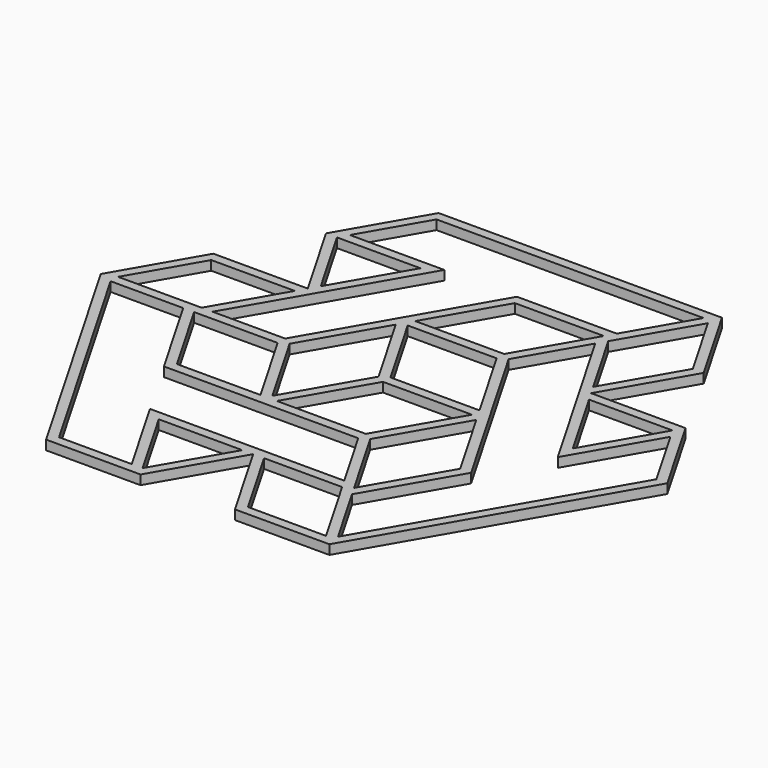
from build123d import *

# Parameters (mm, degrees)
F1_DEPTH = 2


with BuildPart() as f1:
    # F0 (on Top) → F1 (new body)
    with BuildSketch(Plane.XY):
        Polygon((-50, 17.320508), (-60, 0), (-30, -51.961524), (-10, -51.961524), (0, -34.641016), (10, -51.961524), (30, -51.961524), (60, 0), (50, 17.320508), (30, 17.320508), (40, 34.641016), (30, 51.961524), (-30, 51.961524), (-40, 34.641016), (-30, 17.320508), align=None)
        Polygon((-2.309401, -34.641016), (-11.154701, -49.961524), (-20, -34.641016), align=None, mode=Mode.SUBTRACT)
        Polygon((17.690599, -32.641016), (-23.464102, -32.641016), (-13.464102, -49.961524), (-28.845299, -49.961524), (-57.113249, -1), (-41.732051, -1), (-31.154701, -19.320508), (10, -19.320508), align=None, mode=Mode.SUBTRACT)
        Polygon((-30, -17.320508), (-39.42265, -1), (-21.732051, -1), (-12.309401, -17.320508), align=None, mode=Mode.SUBTRACT)
        Polygon((18.845299, -34.641016), (27.690599, -49.961524), (11.154701, -49.961524), (2.309401, -34.641016), align=None, mode=Mode.SUBTRACT)
        Polygon((30, -17.320508), (20.57735, -33.641016), (11.732051, -18.320508), (21.154701, -2), align=None, mode=Mode.SUBTRACT)
        Polygon((19.42265, -1), (10, -17.320508), (-8.845299, -17.320508), (0.57735, -1), align=None, mode=Mode.SUBTRACT)
        Polygon((19.42265, 31.641016), (40, -4), (50, 13.320508), (57.690599, 0), (29.42265, -48.961524), (21.732051, -35.641016), (32.309401, -17.320508), (11.732051, 18.320508), align=None, mode=Mode.SUBTRACT)
        Polygon((-57.113249, 1), (-48.845299, 15.320508), (-31.154701, 15.320508), (-39.42265, 1), align=None, mode=Mode.SUBTRACT)
        Polygon((-20, 0), (-10.57735, 16.320508), (-1.154701, 0), (-10.57735, -16.320508), align=None, mode=Mode.SUBTRACT)
        Polygon((-37.113249, 1), (-16.535898, 36.641016), (-36.535898, 36.641016), (-28.845299, 49.961524), (27.690599, 49.961524), (20, 36.641016), (-1.154701, 36.641016), (-21.732051, 1), align=None, mode=Mode.SUBTRACT)
        Polygon((-37.690599, 34.641016), (-20, 34.641016), (-28.845299, 19.320508), align=None, mode=Mode.SUBTRACT)
        Polygon((0.57735, 1), (-8.845299, 17.320508), (10, 17.320508), (19.42265, 1), align=None, mode=Mode.SUBTRACT)
        Polygon((31.154701, 15.320508), (48.845299, 15.320508), (40, 0), align=None, mode=Mode.SUBTRACT)
        Polygon((-8.845299, 19.320508), (0, 34.641016), (18.845299, 34.641016), (10, 19.320508), align=None, mode=Mode.SUBTRACT)
        Polygon((20.57735, 33.641016), (29.42265, 48.961524), (37.690599, 34.641016), (28.845299, 19.320508), align=None, mode=Mode.SUBTRACT)
    extrude(amount=F1_DEPTH)


solid = f1.part
